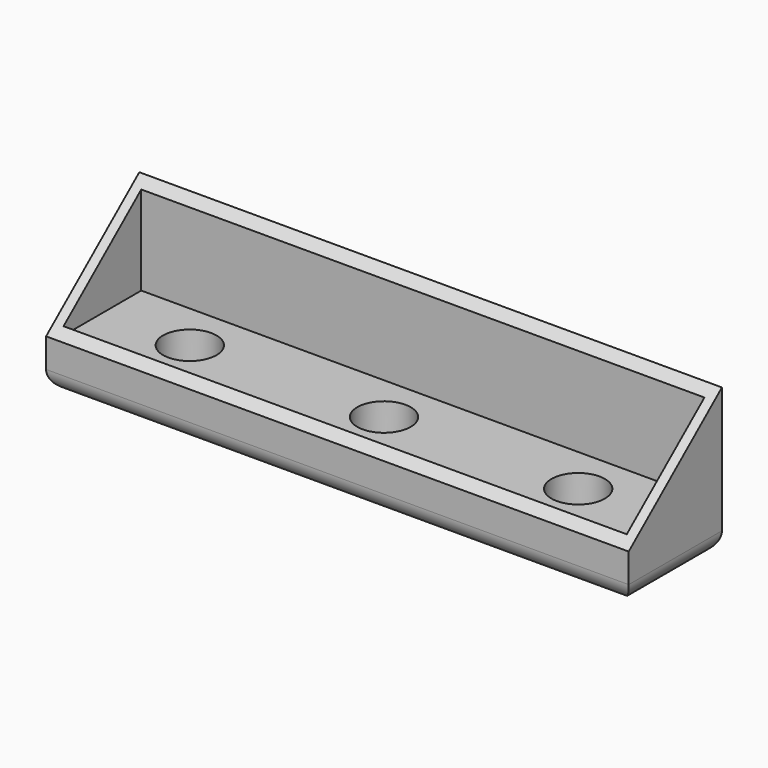
from build123d import *

# Parameters (mm, degrees)
F0_W          = 60
F0_H          = 12
F0_W_2        = 58
F0_H_2        = 10
F0_R          = 2.75
F1_DEPTH      = 5
F3_DEPTH      = 30
F3_DEPTH_BACK = 30
F4_START      = 5
F4_DEPTH      = 10.001
F5_R          = 2


with BuildPart() as f1:
    # F0 (on Top) → F1 (new body)
    with BuildSketch(Plane.XY):
        Rectangle(F0_W, F0_H)
        Rectangle(F0_W_2, F0_H_2, mode=Mode.SUBTRACT)
        Rectangle(F0_W_2, F0_H_2)
        with Locations((-20, 0)):
            Circle(F0_R, mode=Mode.SUBTRACT)
        Circle(F0_R, mode=Mode.SUBTRACT)
        with Locations((20, 0)):
            Circle(F0_R, mode=Mode.SUBTRACT)
    extrude(amount=F1_DEPTH)

    # F2 (on Right) → F3 (join, two sides)
    with BuildSketch(Plane.YZ) as f3_sk:
        Polygon((6, 15), (-6, 5), (6, 5), align=None)
    extrude(amount=-F3_DEPTH)
    extrude(f3_sk.sketch, amount=F3_DEPTH_BACK)

    # F0 (on Top) → F4 (cut)
    with BuildSketch(Plane.XY.offset(F4_START)):
        Rectangle(F0_W_2, F0_H_2)
        with Locations((-20, 0)):
            Circle(F0_R, mode=Mode.SUBTRACT)
        Circle(F0_R, mode=Mode.SUBTRACT)
        with Locations((20, 0)):
            Circle(F0_R, mode=Mode.SUBTRACT)
        Circle(F0_R)
        with Locations((-20, 0)):
            Circle(F0_R)
        with Locations((20, 0)):
            Circle(F0_R)
    extrude(amount=F4_DEPTH, mode=Mode.SUBTRACT)

    # F5
    f5_edges = [f1.edges().sort_by_distance(p)[0] for p in [
        (0, 6, 0),
        (30, 0, 0),
        (0, -6, 0),
        (-30, 0, 0),
    ]]
    fillet(f5_edges, radius=F5_R)


solid = f1.part
